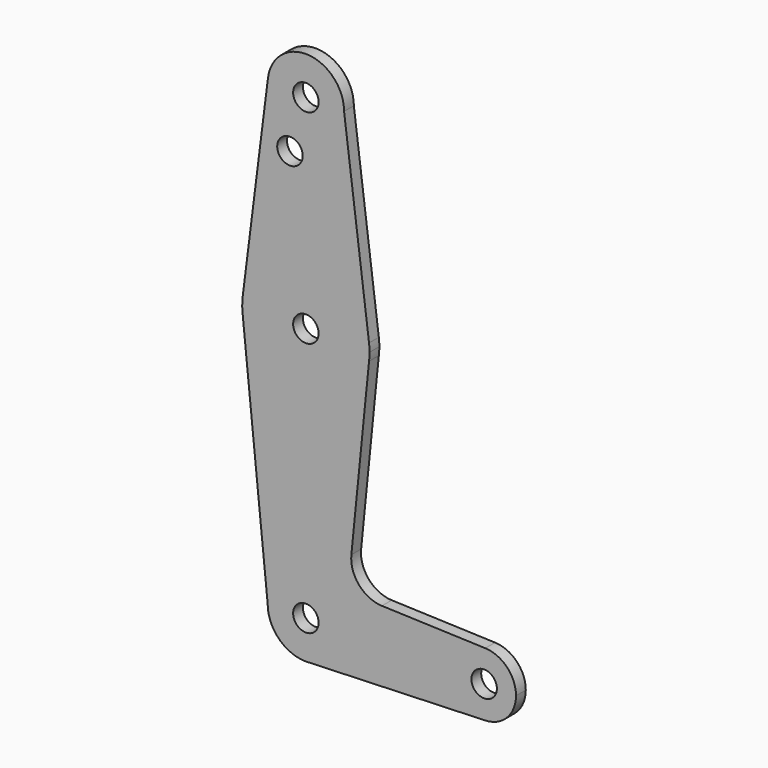
from build123d import *

# Parameters (mm, degrees)
F1_R     = 3.175
F2_DEPTH = 3.048


with BuildPart() as f2:
    # F1 (on offset) → F2 (new body)
    with BuildSketch(Plane.XZ.offset(152.4)):
        with BuildLine():
            ThreePointArc((-9.450293, 115.490625), (-0.596483, 104.793695), (9.525, 114.3))
            ThreePointArc((9.525, 114.3), (0.596483, 123.806305), (-9.450293, 115.490625))
        make_face()
        with Locations((0, 114.3)):
            Circle(F1_R, mode=Mode.SUBTRACT)
        with BuildLine():
            Line((15.747457, 65.508289), (9.525, 114.3))
            ThreePointArc((9.525, 114.3), (-0.596483, 104.793695), (-9.450293, 115.490625))
            Line((-9.450293, 115.490625), (-15.750488, 65.484375))
            ThreePointArc((-15.750488, 65.484375), (-0.012053, 79.374995), (15.747457, 65.508289))
        make_face()
        with Locations((-3.968843, 101.196803)):
            Circle(F1_R, mode=Mode.SUBTRACT)
        with BuildLine():
            ThreePointArc((15.875, 63.5), (15.843082, 64.506168), (15.747457, 65.508289))
            ThreePointArc((15.747457, 65.508289), (-0.012053, 79.374995), (-15.750488, 65.484375))
            ThreePointArc((-15.750488, 65.484375), (-15.873819, 63.693615), (-15.794203, 61.90038))
            ThreePointArc((-15.794203, 61.90038), (-0.205667, 47.626332), (15.747457, 61.491711))
            ThreePointArc((15.747457, 61.491711), (15.843082, 62.493832), (15.875, 63.5))
        make_face()
        with Locations((0, 63.5)):
            Circle(F1_R, mode=Mode.SUBTRACT)
        with BuildLine():
            ThreePointArc((15.747457, 61.491711), (-0.205667, 47.626332), (-15.794203, 61.90038))
            Line((-15.794203, 61.90038), (-9.525, 0))
            ThreePointArc((-9.525, 0), (0, 9.525), (9.525, 0))
            ThreePointArc((9.525, 0), (6.970557, -6.491299), (0.677344, -9.500886))
            Line((0.677344, -9.500886), (44.732405, -7.932475))
            ThreePointArc((44.732405, -7.932475), (36.5125, 0), (44.732405, 7.932475))
            Line((44.732405, 7.932475), (18.966648, 8.849765))
            ThreePointArc((18.966648, 8.849765), (13.259759, 11.567253), (11.339084, 17.58924))
            Line((11.339084, 17.58924), (15.747457, 61.491711))
        make_face()
        with BuildLine():
            ThreePointArc((9.525, 0), (0, 9.525), (-9.525, 0))
            ThreePointArc((-9.525, 0), (-6.735192, -6.735192), (0, -9.525))
            Line((0, -9.525), (0.677344, -9.500886))
            ThreePointArc((0.677344, -9.500886), (6.970557, -6.491299), (9.525, 0))
        make_face()
        Circle(F1_R, mode=Mode.SUBTRACT)
        with BuildLine():
            Line((0.677344, -9.500886), (0, -9.525))
            ThreePointArc((0, -9.525), (0.338886, -9.51897), (0.677344, -9.500886))
        make_face()
        with BuildLine():
            ThreePointArc((52.3875, 0), (50.161633, 5.51191), (44.732405, 7.932475))
            ThreePointArc((44.732405, 7.932475), (36.5125, 0), (44.732405, -7.932475))
            ThreePointArc((44.732405, -7.932475), (50.161633, -5.51191), (52.3875, 0))
        make_face()
        with Locations((44.45, 0)):
            Circle(F1_R, mode=Mode.SUBTRACT)
    extrude(amount=F2_DEPTH)


solid = f2.part
